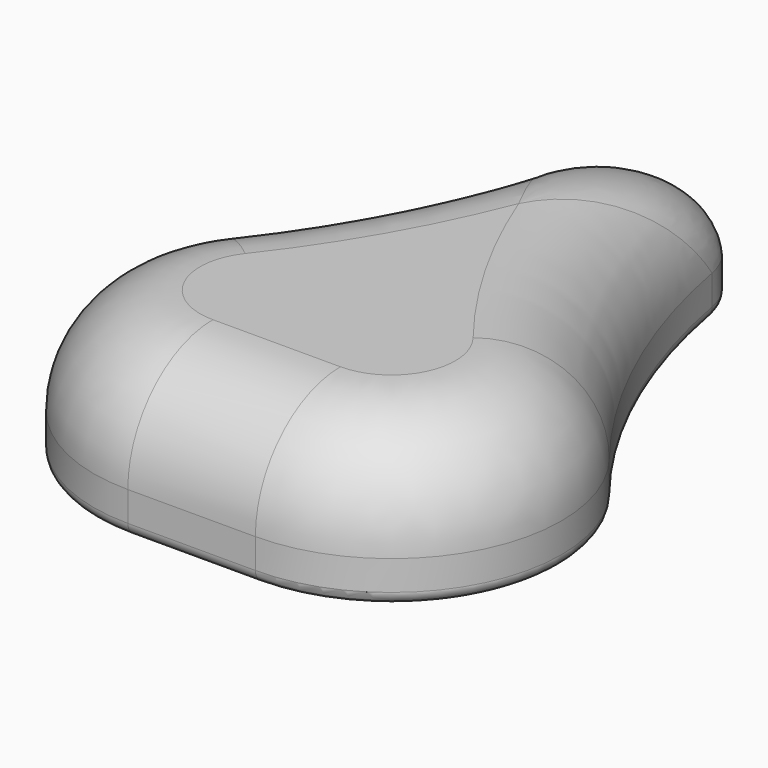
from build123d import *

# Parameters (mm, degrees)
PAD_DEPTH       = 35
FILLET_R        = 25
SKETCH001_W     = 28
SKETCH001_H     = 35
PAD001_DEPTH    = 1
PAD002_DEPTH    = 28
SKETCH004_R     = 9.55
POCKET_DEPTH    = 35
SKETCH005_R     = 2.1
POCKET001_DEPTH = 69.001
FILLET001_R     = 6
FILLET002_R     = 2
FILLET003_R     = 3
FILLET004_R     = 6


with BuildPart() as part:
    # Sketch → Pad (new body)
    with BuildSketch(Plane.XY):
        with BuildLine():
            ThreePointArc((15, 64), (0, 76.46889), (-15, 64))
            ThreePointArc((-46.461169, -5.570082), (-26.519858, 27.310773), (-15, 64))
            ThreePointArc((-46.461169, -5.570082), (-50.972801, -47.763847), (-15, -70.272205))
            Line((-15, -70.272205), (15, -70.272205))
            ThreePointArc((15, -70.272205), (50.972801, -47.763847), (46.461169, -5.570082))
            ThreePointArc((15, 64), (26.519858, 27.310773), (46.461169, -5.570082))
        make_face()
    extrude(amount=PAD_DEPTH)

    # Fillet
    fillet_edges = [part.edges().sort_by_distance(p)[0] for p in [
        (0, 76.46889, 35),
    ]]
    fillet(fillet_edges, radius=FILLET_R)

    # Sketch001 → Pad001 (new body)
    with BuildSketch(Plane(origin=(0, 0, 0), x_dir=(1, 0, 0), z_dir=(0, 0, -1))):
        with Locations((0, 7.5)):
            Rectangle(SKETCH001_W, SKETCH001_H)
    extrude(amount=PAD001_DEPTH)

    # Sketch002 → Pad002 (new body)
    with BuildSketch(Plane.YZ.offset(14)):
        Polygon((-25, 0), (-19.152566, -19.126095), (10, -10.213261), (10, 0), align=None)
    extrude(amount=-PAD002_DEPTH)

    # Sketch004 → Pocket (cut)
    with BuildSketch(Plane(origin=(0, 3.710404, -12.136184), x_dir=(1, 0, 0), z_dir=(0, 0.292372, -0.956305))):
        with Locations((0, 8.66532)):
            Circle(SKETCH004_R)
    extrude(amount=-POCKET_DEPTH, mode=Mode.SUBTRACT)

    # Sketch005 → Pocket001 (cut, through all)
    with BuildSketch(Plane.YZ.offset(14)):
        with Locations((-6.769071, -7.497393)):
            Circle(SKETCH005_R)
    extrude(amount=-POCKET001_DEPTH, mode=Mode.SUBTRACT)

    # Fillet001
    fillet001_edges = [part.edges().sort_by_distance(p)[0] for p in [
        (14, 10, -5.606631),
        (-14, 10, -5.606631),
        (-14, -21.923418, -10.063048),
        (14, -21.923418, -10.063048),
    ]]
    fillet(fillet001_edges, radius=FILLET001_R)

    # Fillet002
    fillet002_edges = [part.edges().sort_by_distance(p)[0] for p in [
        (14, -4.707369, -14.709755),
    ]]
    fillet(fillet002_edges, radius=FILLET002_R)

    # Fillet003
    fillet003_edges = [part.edges().sort_by_distance(p)[0] for p in [
        (26.519858, 27.310773, 0),
    ]]
    fillet(fillet003_edges, radius=FILLET003_R)

    # Fillet004
    fillet004_edges = [part.edges().sort_by_distance(p)[0] for p in [
        (-14, -25, -0.5),
        (14, -25, -0.5),
    ]]
    fillet(fillet004_edges, radius=FILLET004_R)


solid = part.part
